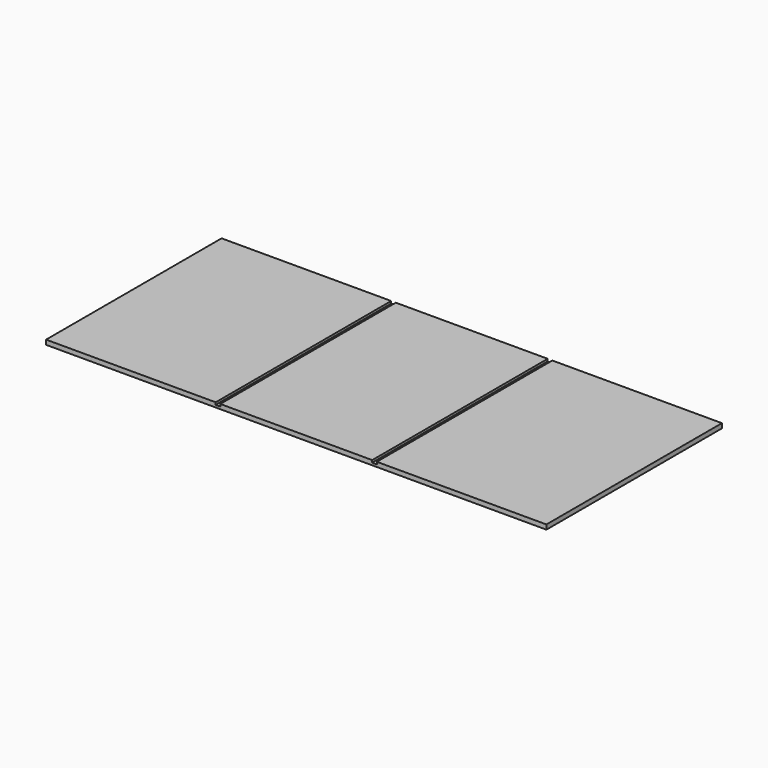
from build123d import *

# Parameters (mm, degrees)
F0_W     = 2063.75
F0_H     = 904.875
F2_DEPTH = 9.525
F1_W     = 699.5541
F1_H     = 904.875
F1_W_2   = 626.5418
F3_DEPTH = 9.525


with BuildPart() as f2:
    # F0 (on Top) → F2 (new body)
    with BuildSketch(Plane.XY):
        Rectangle(F0_W, F0_H)
    extrude(amount=-F2_DEPTH)

    # F1 (on Top) → F3 (join)
    with BuildSketch(Plane.XY):
        with Locations((-682.09795, 0)):
            Rectangle(F1_W, F1_H)
        with Locations((682.09795, 0)):
            Rectangle(F1_W, F1_H)
        Rectangle(F1_W_2, F1_H)
    extrude(amount=F3_DEPTH)


solid = f2.part
